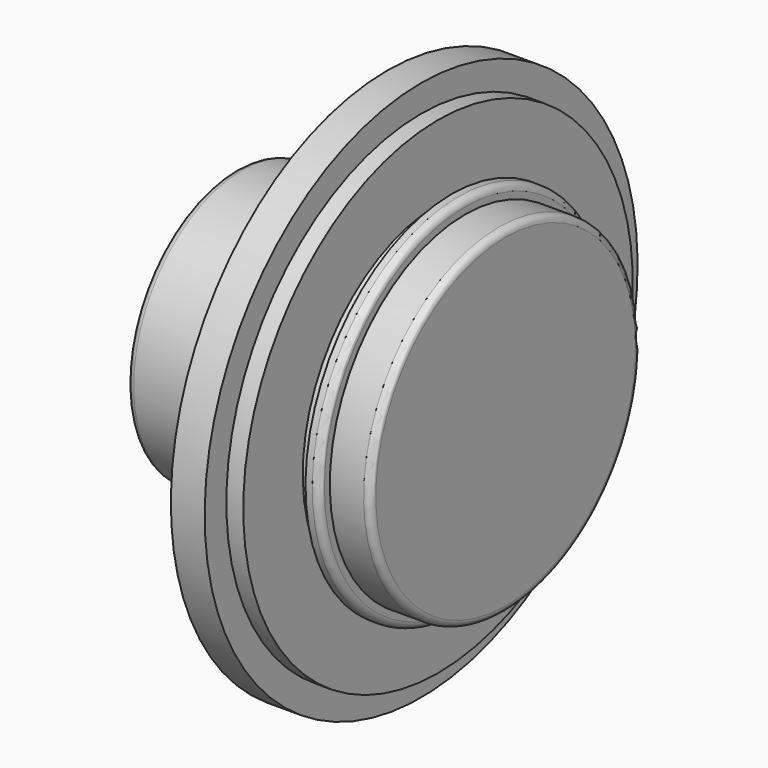
from build123d import *

# Parameters (mm, degrees)
F2_R = 0.5


with BuildPart() as f1:
    # F0 (on Front) → F1 (revolve)
    with BuildSketch(Plane.XZ):
        Polygon((-20, 0), (0, 0), (0, 12.5), (-3, 12.5), (-3, 13.5), (-4, 13.5), (-4, 12.5), (-5, 12.5), (-5, 18), (-6.25, 18), (-6.25, 20), (-8.75, 20), (-8.75, 18), (-10, 18), (-10, 10), (-20, 10), align=None)
    revolve(axis=Axis((-10, 0, 0), (-1, 0, 0)))

    # F2
    f2_edges = [f1.edges().sort_by_distance(p)[0] for p in [
        (-10, 0, -10),
        (-20, 0, -10),
        (-15, 0, 10),
        (-3, 0, -13.5),
        (0, 0, -12.5),
    ]]
    fillet(f2_edges, radius=F2_R)


solid = f1.part
